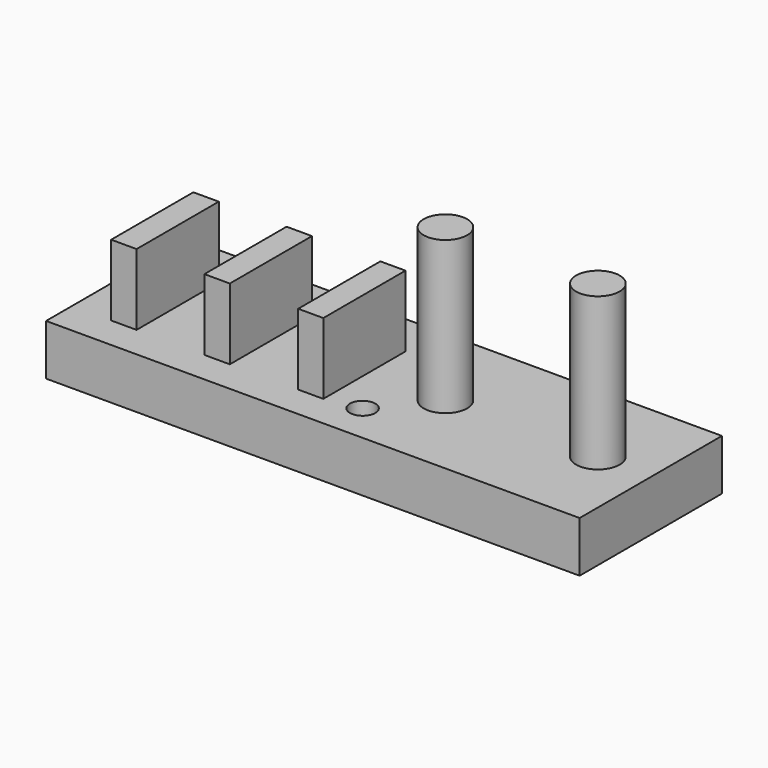
from build123d import *

# Parameters (mm, degrees)
F0_W     = 6.35
F0_H     = 25.671218
F0_W_2   = 6.282151
F1_DEPTH = 30.48
F0_R     = 5.436768
F2_DEPTH = 50.8
F0_W_3   = 133.35
F0_H_2   = 44.45
F0_R_2   = 3.175
F3_DEPTH = 12.7


with BuildPart() as f1:
    # F0 (on Top) → F1 (new body)
    with BuildSketch(Plane.XY):
        with Locations((-67.037499, 6.592832)):
            Rectangle(F0_W, F0_H)
        Polygon((-40.562348, 19.428441), (-46.844499, 19.428441), (-46.912348, 19.428441), (-46.912348, -6.242777), (-46.844499, -6.242777), (-40.562348, -6.242777), align=None)
        Polygon((-40.562348, 19.428441), (-46.844499, 19.428441), (-46.912348, 19.428441), (-46.912348, -6.242777), (-46.844499, -6.242777), (-40.562348, -6.242777), align=None)
        with Locations((-20.335423, 6.592832)):
            Rectangle(F0_W_2, F0_H)
    extrude(amount=F1_DEPTH)


with BuildPart() as f2:
    # F0 (on Top) → F2 (new body)
    with BuildSketch(Plane.XY):
        with Locations((1.806316, 8.158335)):
            Circle(F0_R)
        with Locations((39.906316, 8.158335)):
            Circle(F0_R)
    extrude(amount=F2_DEPTH)


with BuildPart() as f3:
    # F0 (on Top) → F3 (new body)
    with BuildSketch(Plane.XY):
        with Locations((-13.344483, 7.905885)):
            Rectangle(F0_W_3, F0_H_2)
        with Locations((-67.037499, 6.592832)):
            Rectangle(F0_W, F0_H, mode=Mode.SUBTRACT)
        Polygon((-46.912348, 19.428441), (-46.844499, 19.428441), (-40.562348, 19.428441), (-40.562348, -6.242777), (-46.844499, -6.242777), (-46.912348, -6.242777), align=None, mode=Mode.SUBTRACT)
        with Locations((-20.335423, 6.592832)):
            Rectangle(F0_W_2, F0_H, mode=Mode.SUBTRACT)
        with Locations((-8.710167, -4.562242)):
            Circle(F0_R_2, mode=Mode.SUBTRACT)
        with Locations((1.806316, 8.158335)):
            Circle(F0_R, mode=Mode.SUBTRACT)
        with Locations((39.906316, 8.158335)):
            Circle(F0_R, mode=Mode.SUBTRACT)
        with Locations((-8.710167, 20.211201)):
            Circle(F0_R_2, mode=Mode.SUBTRACT)
    extrude(amount=F3_DEPTH)


solid = Compound([f1.part, f2.part, f3.part])
